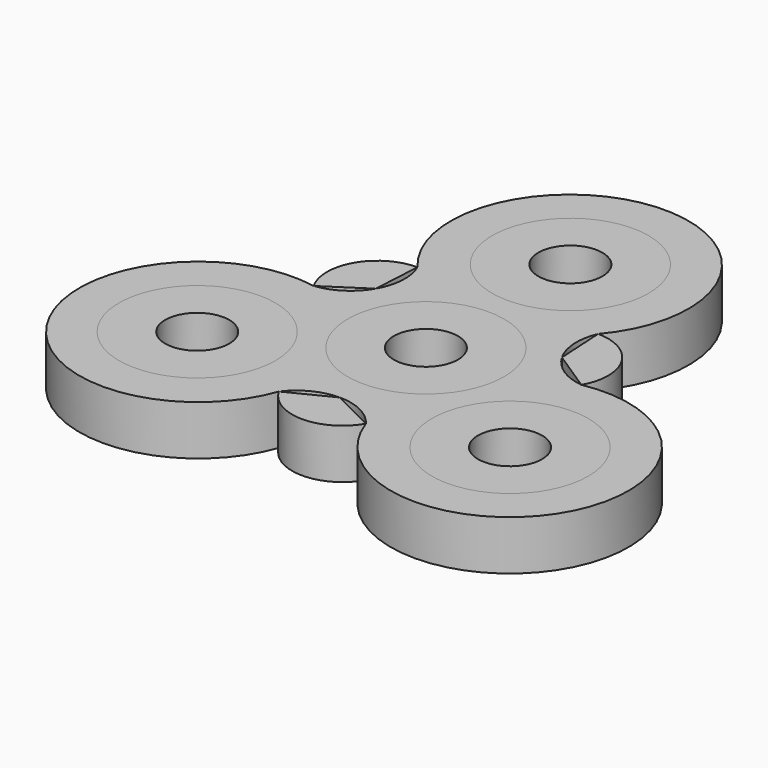
from build123d import *

# Parameters (mm, degrees)
F0_R     = 10.9982
F0_R_2   = 4.5085
F1_DEPTH = 6.985
F2_DEPTH = 6.985
F3_DEPTH = 6.985
F4_DEPTH = 6.985
F5_DEPTH = 6.985


with BuildPart() as f1:
    # F0 (on Top) → F1 (new body)
    with BuildSketch(Plane.XY):
        with Locations((-21.997045, -12.7)):
            Circle(F0_R)
        with Locations((-21.997045, -12.7)):
            Circle(F0_R_2, mode=Mode.SUBTRACT)
        with Locations((21.997045, -12.7)):
            Circle(F0_R)
        with Locations((21.997045, -12.7)):
            Circle(F0_R_2, mode=Mode.SUBTRACT)
    extrude(amount=F1_DEPTH)


with BuildPart() as f2:
    # F0 (on Top) → F2 (new body)
    with BuildSketch(Plane.XY):
        with Locations((0, 25.4)):
            Circle(F0_R)
        with Locations((0, 25.4)):
            Circle(F0_R_2, mode=Mode.SUBTRACT)
    extrude(amount=F2_DEPTH)


with BuildPart() as f3:
    # F0 (on Top) → F3 (new body)
    with BuildSketch(Plane.XY):
        Circle(F0_R)
        Circle(F0_R_2, mode=Mode.SUBTRACT)
    extrude(amount=F3_DEPTH)


with BuildPart() as f4:
    # F0 (on Top) → F4 (new body)
    with BuildSketch(Plane.XY):
        with BuildLine():
            ThreePointArc((-13.090936, 7.558055), (-15.509902, 4.996967), (-18.822325, 3.797623))
            ThreePointArc((-18.822325, 3.797623), (-36.380509, -21.004297), (-6.122325, -18.199423))
            ThreePointArc((-6.122325, -18.199423), (-3.427451, -15.930453), (0, -15.116111))
            ThreePointArc((0, -15.116111), (3.427451, -15.930453), (6.122325, -18.199423))
            ThreePointArc((6.122325, -18.199423), (36.380509, -21.004297), (18.822325, 3.797623))
            ThreePointArc((18.822325, 3.797623), (15.509902, 4.996967), (13.090936, 7.558055))
            ThreePointArc((13.090936, 7.558055), (12.082452, 10.933486), (12.7, 14.4018))
            ThreePointArc((12.7, 14.4018), (0, 42.008593), (-12.7, 14.4018))
            ThreePointArc((-12.7, 14.4018), (-12.082452, 10.933486), (-13.090936, 7.558055))
        make_face()
        with Locations((-21.997045, -12.7)):
            Circle(F0_R, mode=Mode.SUBTRACT)
        Circle(F0_R, mode=Mode.SUBTRACT)
        with Locations((21.997045, -12.7)):
            Circle(F0_R, mode=Mode.SUBTRACT)
        with Locations((0, 25.4)):
            Circle(F0_R, mode=Mode.SUBTRACT)
    extrude(amount=F4_DEPTH)


with BuildPart() as f5:
    # F0 (on Top) → F5 (new body)
    with BuildSketch(Plane.XY):
        with BuildLine():
            ThreePointArc((-12.7, 14.4018), (-18.822325, 10.867074), (-18.822325, 3.797623))
            Line((-18.822325, 3.797623), (-13.090936, 7.558055))
            Line((-13.090936, 7.558055), (-12.7, 14.4018))
        make_face()
        with BuildLine():
            ThreePointArc((18.822325, 3.797623), (18.822325, 10.867074), (12.7, 14.4018))
            Line((12.7, 14.4018), (13.090936, 7.558055))
            Line((13.090936, 7.558055), (18.822325, 3.797623))
        make_face()
        with BuildLine():
            Line((0, -15.116111), (-6.122325, -18.199423))
            ThreePointArc((-6.122325, -18.199423), (0, -21.734148), (6.122325, -18.199423))
            Line((6.122325, -18.199423), (0, -15.116111))
        make_face()
    extrude(amount=F5_DEPTH)


solid = Compound([f1.part, f2.part, f3.part, f4.part, f5.part])
